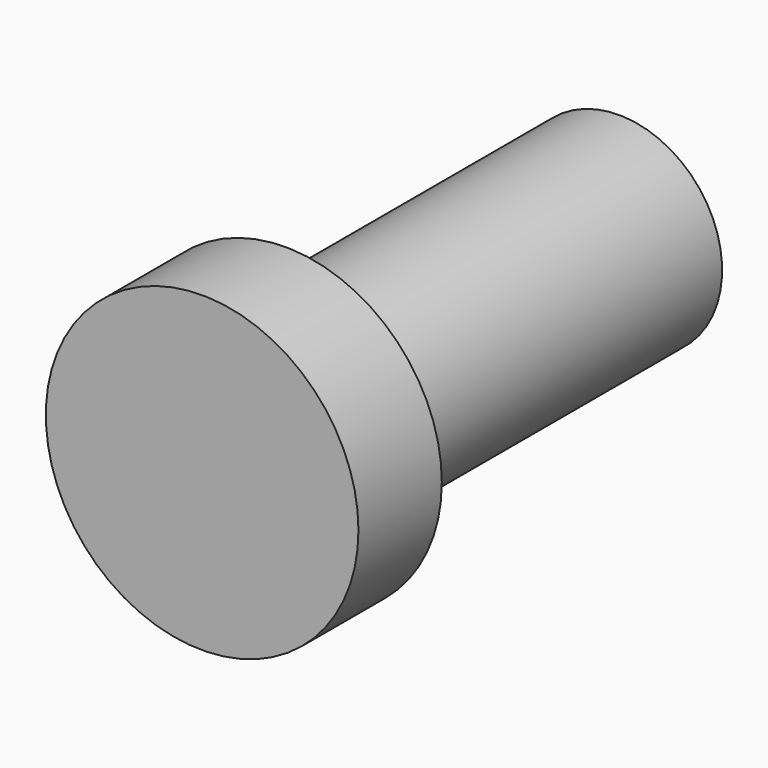
from build123d import *

# Parameters (mm, degrees)
F0_R     = 19.05
F1_DEPTH = 12.7
F2_R     = 12.573
F3_DEPTH = 50.8


with BuildPart() as f1:
    # F0 (on Front) → F1 (new body)
    with BuildSketch(Plane.XZ):
        Circle(F0_R)
    extrude(amount=-F1_DEPTH)

    # F2 (on face) → F3 (join)
    with BuildSketch(Plane(origin=(0, 12.7, 0), x_dir=(-1, 0, 0), z_dir=(0, 1, 0))):
        Circle(F2_R)
    extrude(amount=F3_DEPTH)

    # F5 (on offset) → F6 (revolve, cut)
    with BuildSketch(Plane.XZ.offset(-69.85)):
        with BuildLine():
            Line((-12.7, 0), (12.7, 0))
            ThreePointArc((12.7, 0), (0, 12.7), (-12.7, 0))
        make_face()
    revolve(axis=Axis((-2.040861, 69.85, 0), (-1, 0, 0)), mode=Mode.SUBTRACT)


solid = f1.part
